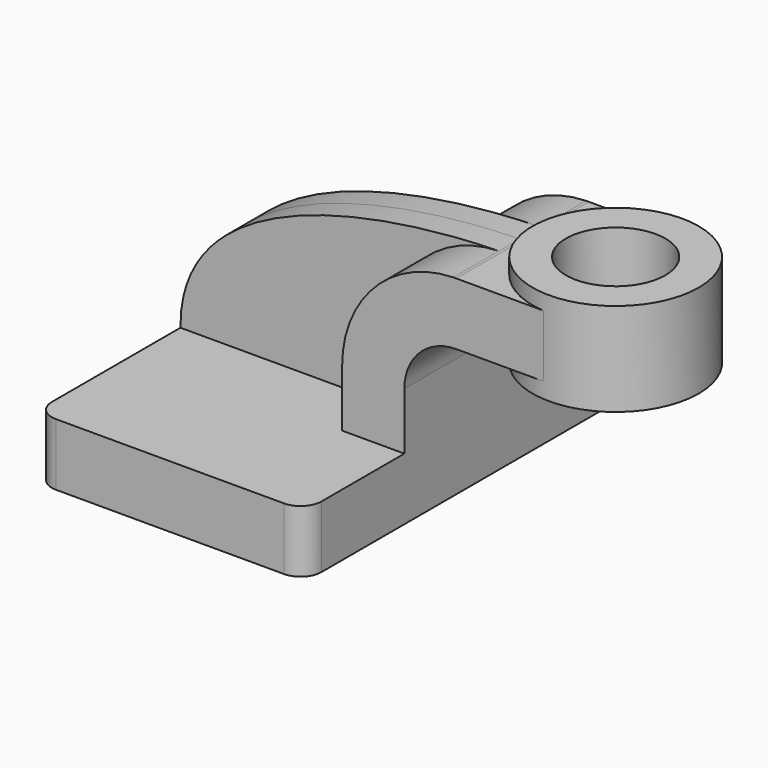
from build123d import *

# Parameters (mm, degrees)
F1_DEPTH = 63.5
F2_DEPTH = 7.9375
F0_W     = 25.341231811
F0_H     = 19.05
F3_DEPTH = 25.4
F5_R     = 6.35
F6_R     = 15.2361087042
F7_DEPTH = 28.575


with BuildPart() as f1:
    # F0 (on Front) → F1 (new body, symmetric)
    with BuildSketch(Plane.XZ):
        Polygon((-41.275, 9.525), (-41.275, -9.525), (41.275, -9.525), (41.275, 9.525), (22.225, 9.525), align=None)
    extrude(amount=F1_DEPTH, both=True)

    # F0 (on Front) → F2 (join, symmetric)
    with BuildSketch(Plane.XZ):
        with BuildLine():
            add(Edge.make_bspline(
                [(-41.275, 9.525), (-41.6624008036, 52.7132268151), (24.7713242394, 61.4626114939), (56.3040405334, 61.9149530076)],
                knots=[0, 0, 0, 0, 110.5062466574, 110.5062466574, 110.5062466574, 110.5062466574], degree=3))
            Line((-41.275, 9.525), (22.225, 9.525))
            Line((22.225, 9.525), (22.225, 27.0002))
            ThreePointArc((22.225, 27.0002), (32.1569933844, 51.3949790585), (56.3040405334, 61.9149530076))
        make_face()
    extrude(amount=F2_DEPTH, both=True)

    # F0 (on Front) → F3 (join, symmetric)
    with BuildSketch(Plane.XZ):
        with BuildLine():
            Line((22.225, 9.525), (41.275, 9.525))
            Line((41.275, 9.525), (41.275, 27.0002))
            ThreePointArc((41.275, 27.0002), (45.9246798487, 38.2255201513), (57.15, 42.8752))
            Line((57.15, 42.8752), (60.325, 42.8752))
            Line((60.325, 42.8752), (60.325, 61.9252))
            Line((60.325, 61.9252), (57.15, 61.9252))
            add(Edge.make_bspline(
                [(56.3040405334, 61.9149530076), (56.5889002651, 61.9190393629), (56.8709117518, 61.9224486028), (57.15, 61.9252)],
                knots=[110.5062466574, 110.5062466574, 110.5062466574, 110.5062466574, 111.5045361635, 111.5045361635, 111.5045361635, 111.5045361635], degree=3))
            ThreePointArc((56.3040405334, 61.9149530076), (32.1569933844, 51.3949790585), (22.225, 27.0002))
            Line((22.225, 27.0002), (22.225, 9.525))
        make_face()
        with Locations((72.9956159055, 52.4002)):
            Rectangle(F0_W, F0_H)
    extrude(amount=F3_DEPTH, both=True)

    # F0 (on Front) → F4 (revolve)
    with BuildSketch(Plane.XZ):
        Polygon((85.666231811, 66.675), (85.666231811, 61.9252), (85.666231811, 42.8752), (85.666231811, 38.1), (111.125, 38.1), (111.125, 66.675), align=None)
    revolve(axis=Axis((85.666231811, 0, 52.3875), (0, 0, -1)))

    # F5
    f5_edges = [f1.edges().sort_by_distance(p)[0] for p in [
        (-41.275, -63.5, 0),
        (41.275, -63.5, 0),
        (41.275, 63.5, 0),
        (-41.275, 63.5, 0),
    ]]
    fillet(f5_edges, radius=F5_R)

    # F6 (on face) → F7 (cut)
    with BuildSketch(Plane(origin=(0, 0, 38.1), x_dir=(1, 0, 0), z_dir=(0, 0, -1))):
        with Locations((85.666231811, 0)):
            Circle(F6_R)
    extrude(amount=-F7_DEPTH, mode=Mode.SUBTRACT)


solid = f1.part
